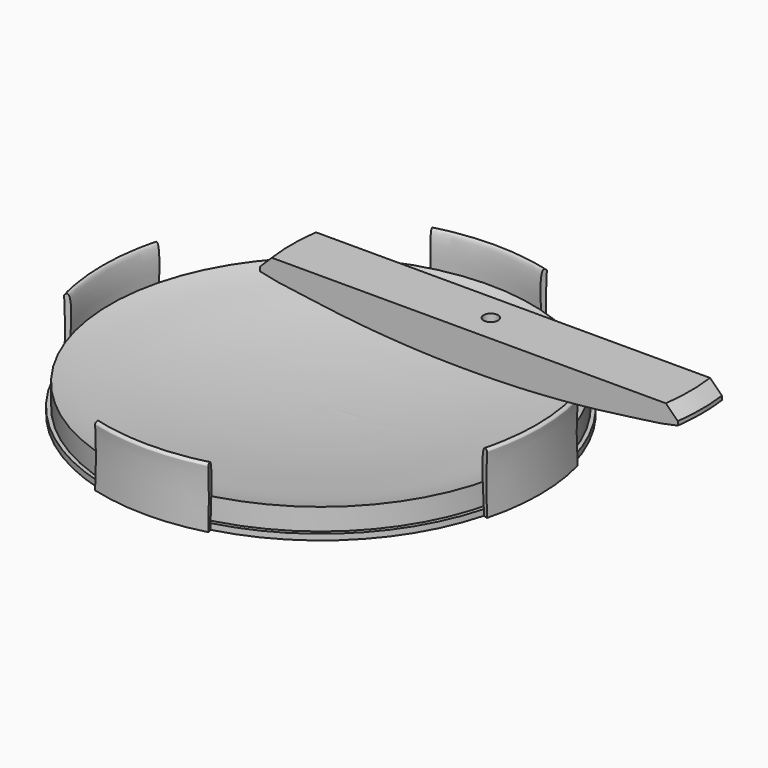
from build123d import *

# Parameters (mm, degrees)
F2_W          = 1
F2_H          = 1.5
F5_ANGLE_BACK = 15
F5_ANGLE      = 30
F6_COUNT      = 4
F9_R          = 1.85
F10_DEPTH     = 8
F11_SIZE      = 1.5
F13_W         = 113.6754006147
F13_H         = 18.7160558999
F14_DEPTH     = 50
F16_W         = 117.0245949179
F16_H         = 20.686166361
F17_DEPTH     = 50


with BuildPart() as f1:
    # F0 (on Front) → F1 (revolve)
    with BuildSketch(Plane.XZ):
        with BuildLine():
            Line((53.5, -2), (53.5, 0))
            Line((53.5, 0), (53.5, 5))
            add(Edge.make_bspline(
                [(0, 0), (3.3454558218, 0.0542717682), (10.8090176432, 0.1062614393), (21.371548013, 0.7475503182), (32.1492656057, 1.7069419401), (42.6974755209, 3.2325135719), (50.1874747626, 4.1258961012), (53.5, 5)],
                knots=[0, 0, 0, 0, 0.1994469438, 0.399033057, 0.5988966387, 0.7991742689, 1, 1, 1, 1], degree=3))
            Line((0, 0), (0, -2))
            Line((0, -2), (53.5, -2))
        make_face()
    revolve(axis=Axis((0, 0, 3.1526437961), (0, 0, -1)))

    # F2 (on Right) → F3 (revolve)
    with BuildSketch(Plane.YZ):
        with Locations((-54, -1.25)):
            Rectangle(F2_W, F2_H)
    revolve(axis=Axis((0, 0, -2), (0, 0, -1)))

    # F4 (on Right) → F5 (revolve)
    with BuildSketch(Plane.YZ, mode=Mode.PRIVATE) as f5_sk:
        with BuildLine():
            Line((-54.5, -2.0231393045), (-54.5, -0.5))
            add(Edge.make_bspline(
                [(-55.5645613074, -2.0231393045), (-55.1740945906, 4.6268983834), (-55.4294740387, 12.2768407368), (-55.6964571803, 12.8692312974), (-53.6796113799, 14.6594986263), (-53.8867457037, 6.2576345636), (-54.5, -0.5)],
                knots=[0, 0, 0, 0, 0.417747256, 0.4904972457, 0.5919153843, 1, 1, 1, 1], degree=3))
            Line((-55.5645613074, -2.0231393045), (-54.5, -2.0231393045))
        make_face()
    revolve(f5_sk.sketch.rotate(Axis((0, 0, 5), (0, 0, -1)), -F5_ANGLE_BACK), axis=Axis((0, 0, 5), (0, 0, -1)), revolution_arc=F5_ANGLE)

    # F6: F1 ×4 about axis
    f6_axis = Axis((0, 0, 5), (0, 0, -1))


with BuildPart() as f1_1:
    add(f1.part)
    for i in range(1, F6_COUNT):
        add(f1.part.rotate(f6_axis, i * 360 / F6_COUNT))


with BuildPart() as f8:
    # F7 (on Front) → F8 (revolve)
    with BuildSketch(Plane.XZ):
        with BuildLine():
            Line((43.1516239118, 30.4319373556), (43.1516239118, 24.4319373556))
            add(Edge.make_bspline(
                [(43.1516239118, 24.4319373556), (46.4970797336, 24.4862091238), (53.960641555, 24.5381987949), (64.5231719249, 25.1794876738), (75.3008895176, 26.1388792956), (85.8490994327, 27.6644509275), (93.3390986744, 28.5578334567), (96.6516239118, 29.4319373556)],
                knots=[0, 0, 0, 0, 0.1994469438, 0.399033057, 0.5988966387, 0.7991742689, 1, 1, 1, 1], degree=3))
            Line((96.6516239118, 29.4319373556), (96.6516239118, 30.4319373556))
            Line((96.6516239118, 30.4319373556), (93.6516239118, 33.4319373556))
            Line((93.6516239118, 33.4319373556), (43.1516239118, 33.4319373556))
            Line((43.1516239118, 33.4319373556), (43.1516239118, 30.4319373556))
        make_face()
    revolve(axis=Axis((43.1516239118, 0, 31.3791711722), (0, 0, 1)))

    # F9 (on face) → F10 (cut)
    with BuildSketch(Plane.XY.offset(33.4319373556)):
        with Locations((43.1516239118, 0)):
            Circle(F9_R)
    extrude(amount=-F10_DEPTH, mode=Mode.SUBTRACT)

    # F11
    f11_edges = [f8.edges().sort_by_distance(p)[0] for p in [
        (41.301624, 0, 25.431937),
    ]]
    chamfer(f11_edges, length=F11_SIZE)

    # F13 (on offset) → F14 (cut)
    with BuildSketch(Plane.XZ.offset(7)):
        with Locations((42.5405576825, 29.5516643673)):
            Rectangle(F13_W, F13_H)
    extrude(amount=F14_DEPTH, mode=Mode.SUBTRACT)

    # F16 (on offset) → F17 (cut)
    with BuildSketch(Plane.XZ.offset(-7)):
        with Locations((44.6091843769, 29.1576413438)):
            Rectangle(F16_W, F16_H)
    extrude(amount=-F17_DEPTH, mode=Mode.SUBTRACT)


solid = Compound([f1_1.part, f8.part])
